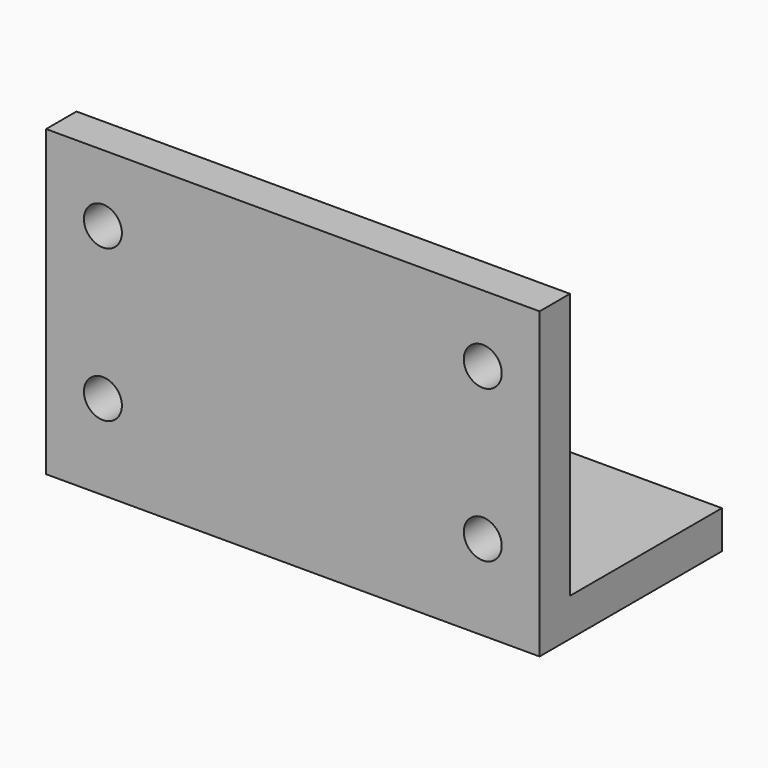
from build123d import *

# Parameters (mm, degrees)
F1_DEPTH = 41.2496
F2_R     = 1.5875
F3_DEPTH = 3.176


with BuildPart() as f1:
    # F0 (on Right) → F1 (new body)
    with BuildSketch(Plane.YZ):
        Polygon((3.175, 25.4), (0, 25.4), (0, 0), (19.05, 0), (19.05, 3.175), (3.175, 3.175), align=None)
    extrude(amount=-F1_DEPTH)

    # F2 (on face) → F3 (cut, through all)
    with BuildSketch(Plane(origin=(0, 3.175, 0), x_dir=(-1, 0, 0), z_dir=(0, 1, 0))):
        with Locations((4.7498, 19.812)):
            Circle(F2_R)
        with Locations((36.4998, 19.812)):
            Circle(F2_R)
        with Locations((4.7498, 7.112)):
            Circle(F2_R)
        with Locations((36.4998, 7.112)):
            Circle(F2_R)
    extrude(amount=-F3_DEPTH, mode=Mode.SUBTRACT)


solid = f1.part
